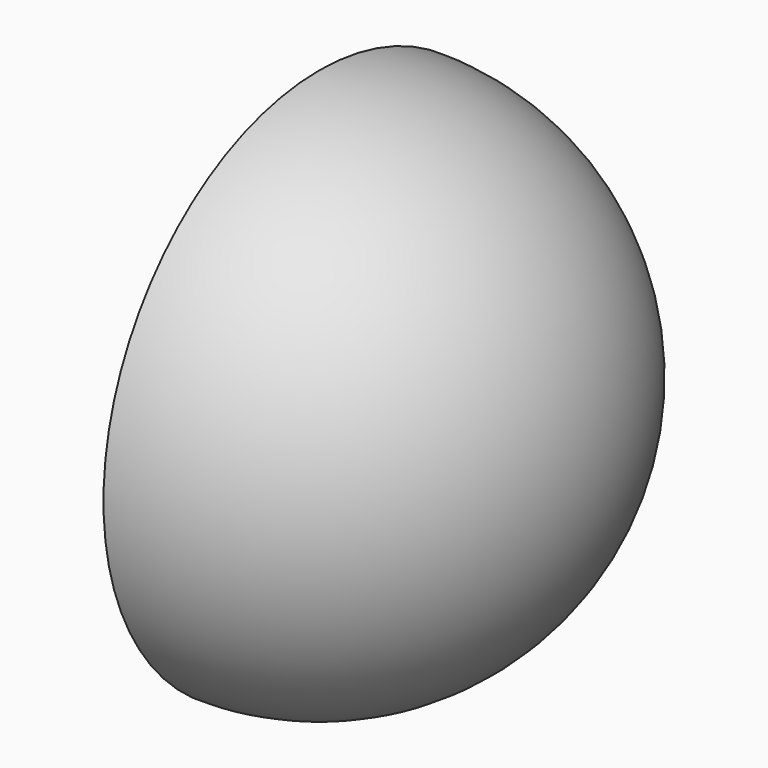
from build123d import *

# Parameters (mm, degrees)
F1_ANGLE = 180
F2_T     = -0.0254


with BuildPart() as f1:
    # F0 (on Right) → F1 (revolve)
    with BuildSketch(Plane.YZ):
        with BuildLine():
            Line((0, 19.05), (0, -19.05))
            ThreePointArc((0, -19.05), (19.05, 0), (0, 19.05))
        make_face()
    revolve(axis=Axis((0, 0, 0), (0, 0, -1)), revolution_arc=F1_ANGLE)

    # F2
    f2_openings = [f1.faces().sort_by_distance(p)[0] for p in [
        (0, 0, 0),
    ]]
    offset(amount=F2_T, openings=f2_openings)


solid = f1.part
